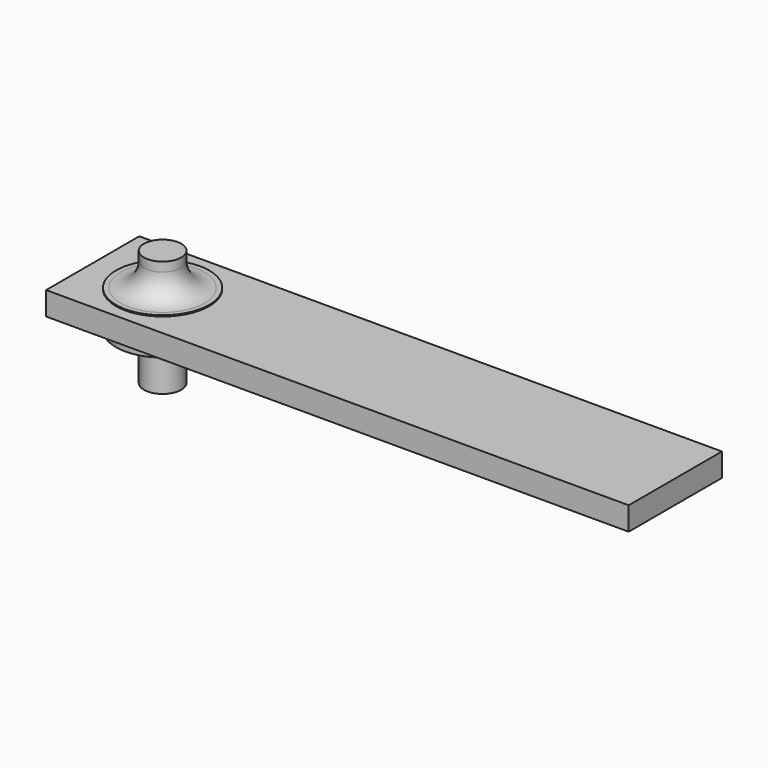
from build123d import *

# Parameters (mm, degrees)
CYLINDER005_R     = 2
CYLINDER005_DEPTH = 1.6
CYLINDER_R        = 0.8
CYLINDER_DEPTH    = 5
FILLET004_R       = 1
BOX005_W          = 25
BOX005_H          = 5
BOX005_DEPTH      = 1


with BuildPart() as cilindro005:
    # Cylinder005 → Cylinder005 (new body)
    with BuildSketch(Plane(origin=(8, 104, 0), x_dir=(1, 0, 0), z_dir=(0, 0, 1))):
        Circle(CYLINDER005_R)
    extrude(amount=CYLINDER005_DEPTH)


with BuildPart() as fillet004:
    # Cylinder → Cylinder (new body)
    with BuildSketch(Plane(origin=(8, 104, -2), x_dir=(1, 0, 0), z_dir=(0, 0, 1))):
        Circle(CYLINDER_R)
    extrude(amount=CYLINDER_DEPTH)

    # Fusion002: union Cilindro005
    add(cilindro005.part)

    # Fillet004
    fillet004_edges = [fillet004.edges().sort_by_distance(p)[0] for p in [
        (7.2, 104, 1.6),
    ]]
    fillet(fillet004_edges, radius=FILLET004_R)


with BuildPart() as obj1:
    # Box005 → Box005 (new body)
    with BuildSketch(Plane(origin=(5, 101.5, 0.55), x_dir=(1, 0, 0), z_dir=(0, 0, 1))):
        with Locations((12.5, 2.5)):
            Rectangle(BOX005_W, BOX005_H)
    extrude(amount=BOX005_DEPTH)

    # Fusion004: union Fillet004
    add(fillet004.part)


with BuildPart() as obj1_1:
    # Fusion004 placement: moved
    add(obj1.part.moved(Location((5, 0, 0))))


solid = obj1_1.part
